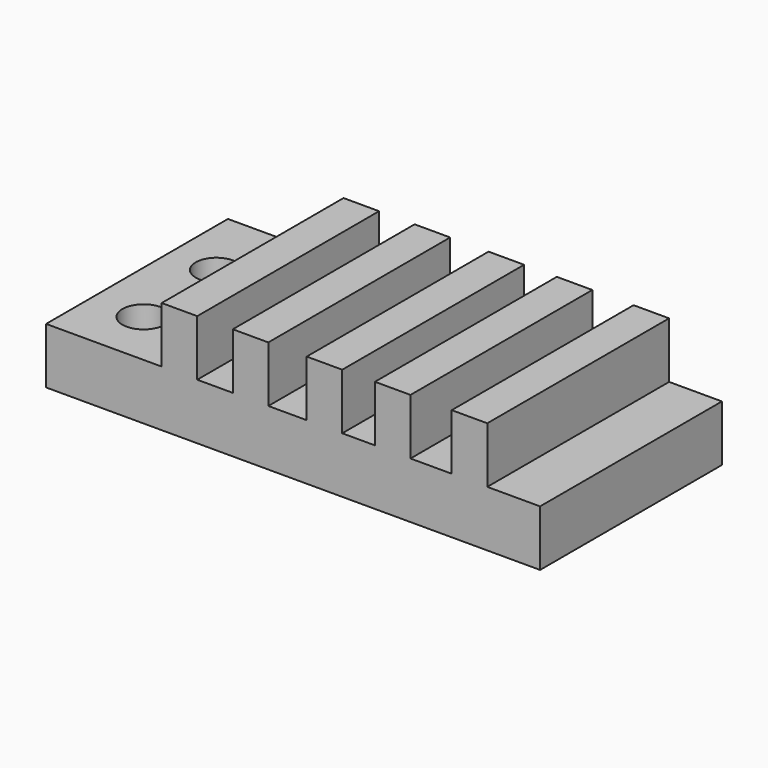
from build123d import *

# Parameters (mm, degrees)
F0_W     = 44.126308
F0_H     = 20.30415
F1_DEPTH = 5
F2_W     = 3.175
F2_H     = 20.30415
F3_DEPTH = 5
F4_R     = 1.9
F4_R_2   = 1.85
F5_DEPTH = 10.001


with BuildPart() as f1:
    # F0 (on Top) → F1 (new body)
    with BuildSketch(Plane.XY):
        with Locations((-22.84455, -40.602903)):
            Rectangle(F0_W, F0_H)
    extrude(amount=-F1_DEPTH)

    # F2 (on face) → F3 (join)
    with BuildSketch(Plane.XY):
        with Locations((-7.086134, -40.602903)):
            Rectangle(F2_W, F2_H)
        with Locations((-13.944134, -40.602903)):
            Rectangle(F2_W, F2_H)
        with Locations((-20.040134, -40.602903)):
            Rectangle(F2_W, F2_H)
        with Locations((-26.644134, -40.602903)):
            Rectangle(F2_W, F2_H)
        with Locations((-32.994134, -40.602903)):
            Rectangle(F2_W, F2_H)
    extrude(amount=F3_DEPTH)

    # F4 (on face) → F5 (cut, through all)
    with BuildSketch(Plane(origin=(0, 0, -5), x_dir=(1, 0, 0), z_dir=(0, 0, -1))):
        with Locations((-40.255573, 45.675743)):
            Circle(F4_R)
        with Locations((-40.718783, 36.96854)):
            Circle(F4_R_2)
    extrude(amount=-F5_DEPTH, mode=Mode.SUBTRACT)


solid = f1.part
